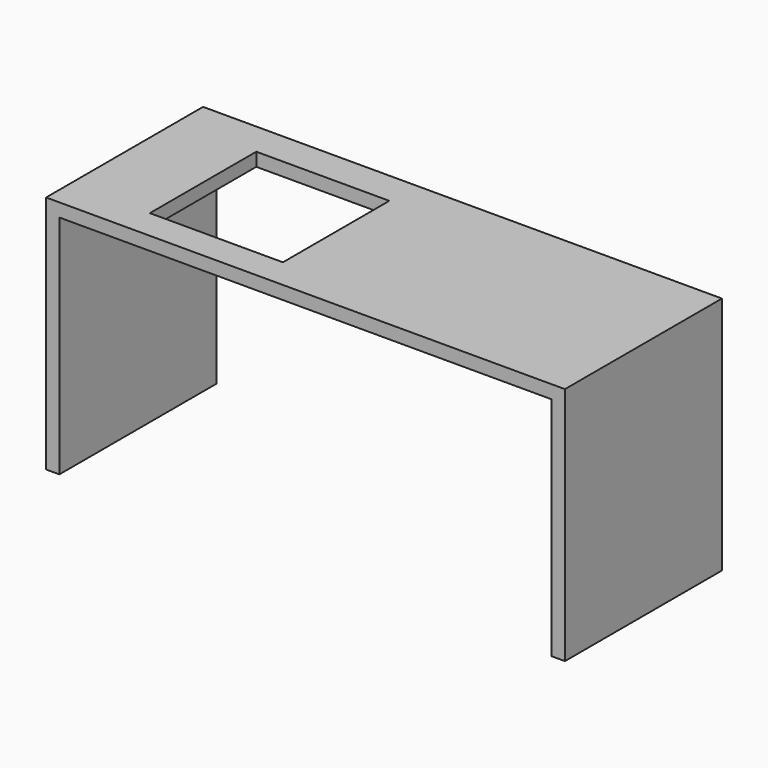
from build123d import *

# Parameters (mm, degrees)
F0_W     = 1981.2
F0_H     = 914.4
F1_DEPTH = 374.65
F2_W     = 1879.6
F2_H     = 863.6
F3_DEPTH = 749.301
F4_W     = 508
F4_H     = 508
F5_DEPTH = 914.401


with BuildPart() as f1:
    # F0 (on Front) → F1 (new body, symmetric)
    with BuildSketch(Plane.XZ):
        with Locations((-990.6, 457.2)):
            Rectangle(F0_W, F0_H)
    extrude(amount=F1_DEPTH, both=True)

    # F2 (on face) → F3 (cut, through all)
    with BuildSketch(Plane.XZ.offset(374.65)):
        with Locations((-990.6, 431.8)):
            Rectangle(F2_W, F2_H)
    extrude(amount=-F3_DEPTH, mode=Mode.SUBTRACT)

    # F4 (on face) → F5 (cut, through all)
    with BuildSketch(Plane.XY.offset(914.4)):
        with Locations((-1422.4, -6.35)):
            Rectangle(F4_W, F4_H)
    extrude(amount=-F5_DEPTH, mode=Mode.SUBTRACT)


solid = f1.part
